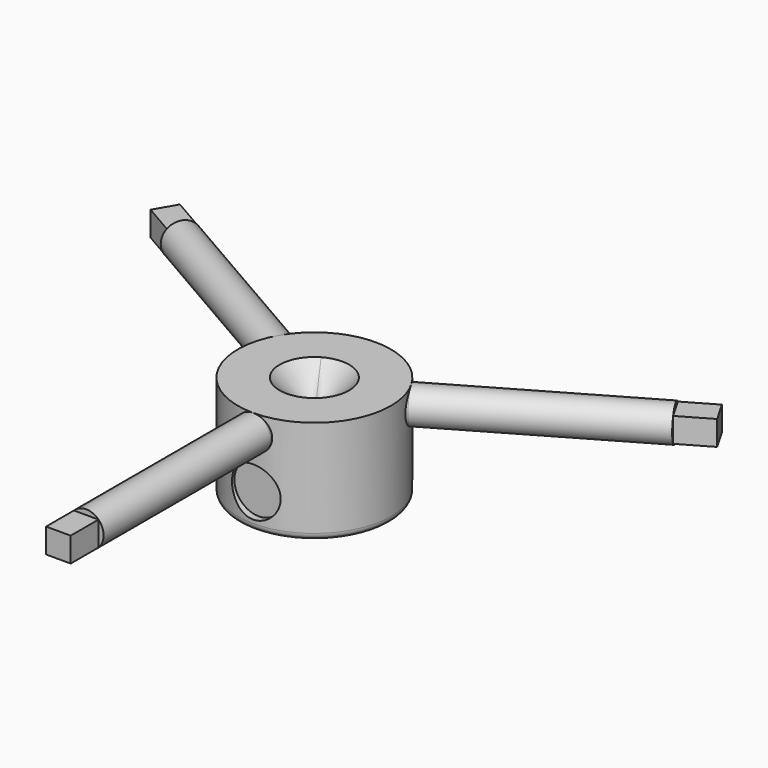
from build123d import *

# Parameters (mm, degrees)
F1_R          = 2.5
F2_DEPTH      = 30
F2_DEPTH_BACK = 2
F3_W          = 3.5355339059
F3_H          = 3.5355339059
F4_DEPTH      = 5
F5_COUNT      = 3
F6_R          = 1
F8_START      = 10
F7_R          = 3.5
F8_DEPTH      = 2
F9_START      = -10
F9_DEPTH      = 2


with BuildPart() as f11:
    # F10 (on Front) → F11 (revolve)
    with BuildSketch(Plane.XZ):
        Polygon((0, -5), (0, -10), (5, -5), (7, -5), (7, -15), (11, -15), (11, 0), (5, 0), align=None)
    revolve(axis=Axis((0, 0, -0.1335814595), (0, 0, -1)))

    # F1 (on offset) → F2 (join, two sides)
    with BuildSketch(Plane.XZ.offset(11)) as f2_sk:
        with Locations((0, -2.5)):
            Circle(F1_R)
    extrude(amount=F2_DEPTH)
    extrude(f2_sk.sketch, amount=-F2_DEPTH_BACK)

    # F3 (on face) → F4 (join)
    with BuildSketch(Plane.XZ.offset(41)):
        with Locations((0, -2.5)):
            Rectangle(F3_W, F3_H)
    extrude(amount=F4_DEPTH)

    # F5: F11 ×3 about axis
    f5_axis = Axis((0, 0, -15), (0, 0, 1))


with BuildPart() as f11_1:
    add(f11.part)
    for i in range(1, F5_COUNT):
        add(f11.part.rotate(f5_axis, i * 360 / F5_COUNT))

    # F6
    f6_edges = [f11_1.edges().sort_by_distance(p)[0] for p in [
        (-11, 0, -15),
        (-7, 0, -15),
    ]]
    fillet(f6_edges, radius=F6_R)

    # F7 (on Front) → F8 (cut)
    with BuildSketch(Plane.XZ.offset(F8_START)):
        with Locations((0, -10)):
            Circle(F7_R)
    extrude(amount=F8_DEPTH, mode=Mode.SUBTRACT)

    # F7 (on Front) → F9 (cut)
    with BuildSketch(Plane.XZ.offset(F9_START)):
        with Locations((0, -10)):
            Circle(F7_R)
    extrude(amount=-F9_DEPTH, mode=Mode.SUBTRACT)


solid = f11_1.part
